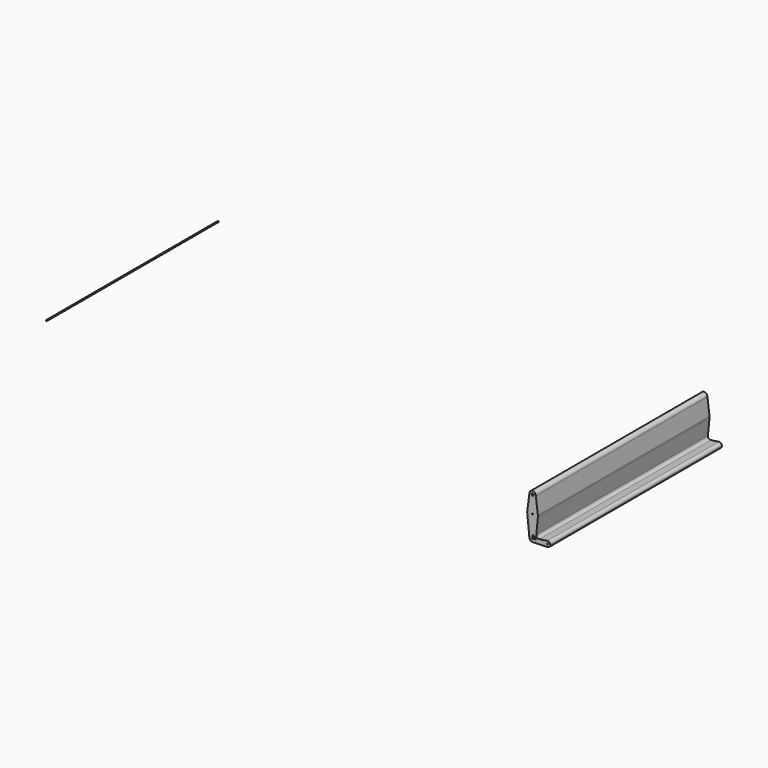
from build123d import *

# Parameters (mm, degrees)
F0_R     = 0.0625
F1_DEPTH = 25


with BuildPart() as f1:
    # F0 (on Front) → F1 (new body)
    with BuildSketch(Plane.XZ):
        with BuildLine():
            ThreePointArc((0.125, 2), (-0.088388, 2.088388), (0, 1.875))
            ThreePointArc((0, 1.875), (0.088388, 1.911612), (0.125, 2))
        make_face()
        with BuildLine():
            ThreePointArc((0.374694, 1.984848), (0.374923, 1.992423), (0.375, 2))
            ThreePointArc((0.375, 2), (-0.007577, 2.374923), (-0.374694, 1.984848))
            ThreePointArc((-0.374694, 1.984848), (-0.259753, 1.729531), (0, 1.625))
            ThreePointArc((0, 1.625), (0.259753, 1.729531), (0.374694, 1.984848))
        make_face()
        with BuildLine():
            ThreePointArc((0.125, 2), (0.088388, 1.911612), (0, 1.875))
            ThreePointArc((0, 1.875), (-0.088388, 2.088388), (0.125, 2))
        make_face(mode=Mode.SUBTRACT)
        with BuildLine():
            ThreePointArc((0, 1.625), (-0.259753, 1.729531), (-0.374694, 1.984848))
            Line((-0.374694, 1.984848), (-0.619887, 0.079783))
            ThreePointArc((-0.619887, 0.079783), (-0.412771, 0.469302), (0, 0.625))
            Line((0, 0.625), (0, 1.625))
        make_face()
        with BuildLine():
            Line((0.619887, 0.079783), (0.374694, 1.984848))
            ThreePointArc((0.374694, 1.984848), (0.259753, 1.729531), (0, 1.625))
            Line((0, 1.625), (0, 0.625))
            ThreePointArc((0, 0.625), (0.412771, 0.469302), (0.619887, 0.079783))
        make_face()
        with BuildLine():
            ThreePointArc((0, 0.625), (-0.412771, 0.469302), (-0.619887, 0.079783))
            ThreePointArc((-0.619887, 0.079783), (-0.624939, 0.008698), (-0.621867, -0.0625))
            ThreePointArc((-0.621867, -0.0625), (-0.419263, -0.463512), (0, -0.625))
            Line((0, -0.625), (0, -0.0625))
            ThreePointArc((0, -0.0625), (-0.0625, 0), (0, 0.0625))
            Line((0, 0.0625), (0, 0.625))
        make_face()
        with BuildLine():
            ThreePointArc((0.625, 0), (0.62372, 0.039973), (0.619887, 0.079783))
            ThreePointArc((0.619887, 0.079783), (0.412771, 0.469302), (0, 0.625))
            Line((0, 0.625), (0, 0.0625))
            ThreePointArc((0, 0.0625), (0.044194, 0.044194), (0.0625, 0))
            ThreePointArc((0.0625, 0), (0.044194, -0.044194), (0, -0.0625))
            Line((0, -0.0625), (0, -0.625))
            ThreePointArc((0, -0.625), (0.419263, -0.463512), (0.621867, -0.0625))
            ThreePointArc((0.621867, -0.0625), (0.624216, -0.031289), (0.625, 0))
        make_face()
        with BuildLine():
            ThreePointArc((0, -0.625), (-0.419263, -0.463512), (-0.621867, -0.0625))
            Line((-0.621867, -0.0625), (-0.37312, -2.5375))
            ThreePointArc((-0.37312, -2.5375), (-0.278107, -2.248442), (0, -2.125))
            Line((0, -2.125), (0, -0.625))
        make_face()
        with BuildLine():
            ThreePointArc((0.621867, -0.0625), (0.419263, -0.463512), (0, -0.625))
            Line((0, -0.625), (0, -2.125))
            ThreePointArc((0, -2.125), (0.265165, -2.234835), (0.375, -2.5))
            Line((0.375, -2.5), (1.4375, -2.5))
            ThreePointArc((1.4375, -2.5), (1.514718, -2.294334), (1.708211, -2.190307))
            Line((1.708211, -2.190307), (0.783076, -2.31514))
            ThreePointArc((0.783076, -2.31514), (0.523685, -2.230001), (0.429789, -1.973651))
            Line((0.429789, -1.973651), (0.621867, -0.0625))
        make_face()
        with BuildLine():
            ThreePointArc((0, -2.125), (-0.278107, -2.248442), (-0.37312, -2.5375))
            ThreePointArc((-0.37312, -2.5375), (-0.246551, -2.782556), (0.013393, -2.874761))
            ThreePointArc((0.013393, -2.874761), (0.269859, -2.760387), (0.375, -2.5))
            Line((0.375, -2.5), (0.0625, -2.5))
            ThreePointArc((0.0625, -2.5), (-0.044194, -2.544194), (0, -2.4375))
            Line((0, -2.4375), (0, -2.125))
        make_face()
        with BuildLine():
            ThreePointArc((0.375, -2.5), (0.269859, -2.760387), (0.013393, -2.874761))
            Line((0.013393, -2.874761), (1.761161, -2.812301))
            ThreePointArc((1.761161, -2.812301), (1.533011, -2.724882), (1.4375, -2.5))
            Line((1.4375, -2.5), (0.375, -2.5))
        make_face()
        with BuildLine():
            ThreePointArc((1.8125, -2.5), (1.75, -2.4375), (1.6875, -2.5))
            ThreePointArc((1.6875, -2.5), (1.75, -2.5625), (1.8125, -2.5))
        make_face()
        with BuildLine():
            ThreePointArc((1.4375, -2.5), (1.533011, -2.724882), (1.761161, -2.812301))
            ThreePointArc((1.761161, -2.812301), (1.974882, -2.716989), (2.0625, -2.5))
            ThreePointArc((2.0625, -2.5), (1.955666, -2.264718), (1.708211, -2.190307))
            ThreePointArc((1.708211, -2.190307), (1.514718, -2.294334), (1.4375, -2.5))
        make_face()
        with BuildLine():
            ThreePointArc((1.8125, -2.5), (1.75, -2.5625), (1.6875, -2.5))
            ThreePointArc((1.6875, -2.5), (1.75, -2.4375), (1.8125, -2.5))
        make_face(mode=Mode.SUBTRACT)
        with Locations((-56.620486, 1.438)):
            Circle(F0_R)
    extrude(amount=F1_DEPTH)


solid = f1.part
